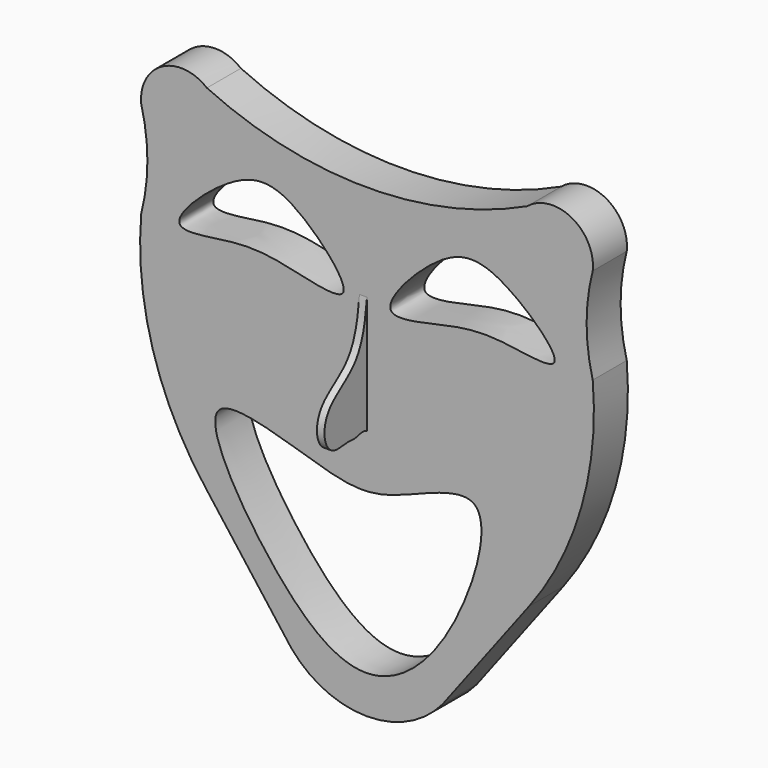
from build123d import *

# Parameters (mm, degrees)
F1_DEPTH = 12.954
F3_DEPTH = 2.286


with BuildPart() as f1:
    # F0 (on Front) → F1 (new body)
    with BuildSketch(Plane.XZ):
        with BuildLine():
            ThreePointArc((48.7981487702, 76.2163455619), (0, 65.3809199957), (-48.7981487702, 76.2163455619))
            ThreePointArc((-48.7981487702, 76.2163455619), (-62.4461486361, 77.5303287538), (-68.8011717672, 65.3809199957))
            ThreePointArc((-68.8011717672, 65.3809199957), (-66.9334130428, 50.7328167241), (-68.8011717672, 36.0847134525))
            ThreePointArc((-68.8011717672, 36.0847134525), (-65.3308721071, 0.8231985056), (-49.4550564741, -30.8529106947))
            Line((-49.4550564741, -30.8529106947), (-23.0253069513, -65.7750524326))
            ThreePointArc((-23.0253069513, -65.7750524326), (0, -76.526657913), (23.0253069513, -65.7750524326))
            Line((23.0253069513, -65.7750524326), (49.4550564741, -30.8529106947))
            ThreePointArc((49.4550564741, -30.8529106947), (65.3308721071, 0.8231985056), (68.8011717672, 36.0847134525))
            ThreePointArc((68.8011717672, 36.0847134525), (66.9334130428, 50.7328167241), (68.8011717672, 65.3809199957))
            ThreePointArc((68.8011717672, 65.3809199957), (62.4461486361, 77.5303287538), (48.7981487702, 76.2163455619))
        make_face()
        with BuildLine():
            add(Edge.make_bspline(
                [(-45.1579429209, -9.0683307499), (-40.9594754794, -4.5955970097), (-10.1602952989, -16.5873657109), (6.4304315247, -17.0827952734), (42.6699698502, 1.9577119419), (27.2881407703, -50.339268127), (-0.3761585715, -71.956992439), (-28.4331372141, -50.0773402883), (-49.853915871, -14.0710697134), (-45.1579429209, -9.0683307499)],
                knots=[0, 0, 0, 0, 0.1453052033, 0.2646738674, 0.3906142441, 0.5472716403, 0.6892994446, 0.837476576, 1, 1, 1, 1], degree=3))
        make_face(mode=Mode.SUBTRACT)
        with BuildLine():
            add(Edge.make_bspline(
                [(-7.2479932569, 34.8482653499), (-5.7613182582, 37.8821130977), (-22.7626549345, 56.9101120848), (-39.423978926, 57.8924024669), (-65.9703146931, 32.794943879), (-40.1767214157, 38.2382470762), (-26.775411693, 37.453748004), (-8.5184803054, 32.2555909091), (-7.2479932569, 34.8482653499)],
                knots=[0, 0, 0, 0, 0.1842243552, 0.3483688097, 0.5334378692, 0.6778507498, 0.8425650142, 1, 1, 1, 1], degree=3))
        make_face(mode=Mode.SUBTRACT)
        with BuildLine():
            add(Edge.make_bspline(
                [(7.2479932569, 34.8482653499), (5.7613182582, 37.8821130977), (22.7626549345, 56.9101120848), (39.423978926, 57.8924024669), (65.9703146931, 32.794943879), (40.1767214157, 38.2382470762), (26.775411693, 37.453748004), (8.5184803054, 32.2555909091), (7.2479932569, 34.8482653499)],
                knots=[0, 0, 0, 0, 0.1842243552, 0.3483688097, 0.5334378692, 0.6778507498, 0.8425650142, 1, 1, 1, 1], degree=3))
        make_face(mode=Mode.SUBTRACT)
    extrude(amount=-F1_DEPTH)

    # F2 (on Right) → F3 (join)
    with BuildSketch(Plane.YZ):
        with BuildLine():
            Line((0, 0), (0, 35.9280109406))
            add(Edge.make_bspline(
                [(0, 35.9280109406), (-0.6441684412, 29.8800479012), (-2.3601933796, 19.0847992664), (-15.2683195987, 13.3769724513), (-17.0044942024, 4.2952058377), (-13.334913698, -1.0708048072), (-7.7201413656, 0.3620330409), (-4.1413305926, -0.4848541476), (-1.4031610275, 0.961543808), (0, 0)],
                knots=[0, 0, 0, 0, 0.2137820307, 0.4010922158, 0.5505789011, 0.671985666, 0.7914951041, 0.8930714202, 1, 1, 1, 1], degree=3))
        make_face()
    extrude(amount=-F3_DEPTH)


solid = f1.part
